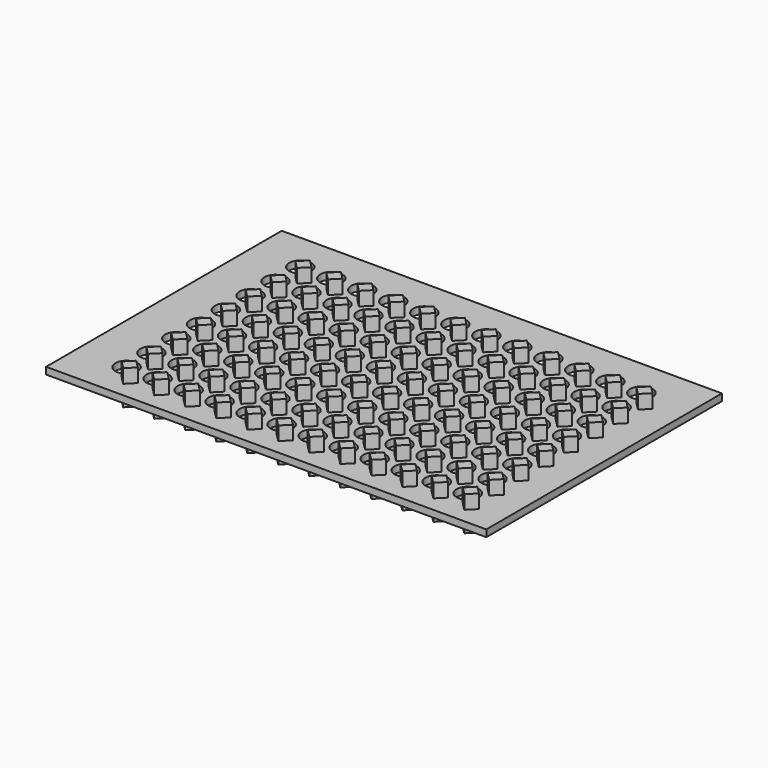
from build123d import *

# Parameters (mm, degrees)
F0_W          = 127.76
F0_H          = 85.48
F0_R          = 3.2258
F1_DEPTH      = 1
F1_DEPTH_BACK = 1
F3_DEPTH      = 5
F3_DEPTH_BACK = 5


with BuildPart() as f1:
    # F0 (on Top) → F1 (new body, two sides)
    with BuildSketch(Plane.XY) as f1_sk:
        with Locations((-63.88, 42.74)):
            Rectangle(F0_W, F0_H)
        with Locations((-113.38, 11.24)):
            Circle(F0_R, mode=Mode.SUBTRACT)
        with Locations((-113.38, 20.24)):
            Circle(F0_R, mode=Mode.SUBTRACT)
        with Locations((-104.38, 11.24)):
            Circle(F0_R, mode=Mode.SUBTRACT)
        with Locations((-104.38, 20.24)):
            Circle(F0_R, mode=Mode.SUBTRACT)
        with Locations((-95.38, 11.24)):
            Circle(F0_R, mode=Mode.SUBTRACT)
        with Locations((-86.38, 11.24)):
            Circle(F0_R, mode=Mode.SUBTRACT)
        with Locations((-95.38, 20.24)):
            Circle(F0_R, mode=Mode.SUBTRACT)
        with Locations((-86.38, 20.24)):
            Circle(F0_R, mode=Mode.SUBTRACT)
        with Locations((-77.38, 11.24)):
            Circle(F0_R, mode=Mode.SUBTRACT)
        with Locations((-68.38, 11.24)):
            Circle(F0_R, mode=Mode.SUBTRACT)
        with Locations((-77.38, 20.24)):
            Circle(F0_R, mode=Mode.SUBTRACT)
        with Locations((-68.38, 20.24)):
            Circle(F0_R, mode=Mode.SUBTRACT)
        with Locations((-113.38, 29.24)):
            Circle(F0_R, mode=Mode.SUBTRACT)
        with Locations((-104.38, 29.24)):
            Circle(F0_R, mode=Mode.SUBTRACT)
        with Locations((-113.38, 38.24)):
            Circle(F0_R, mode=Mode.SUBTRACT)
        with Locations((-104.38, 38.24)):
            Circle(F0_R, mode=Mode.SUBTRACT)
        with Locations((-95.38, 29.24)):
            Circle(F0_R, mode=Mode.SUBTRACT)
        with Locations((-86.38, 29.24)):
            Circle(F0_R, mode=Mode.SUBTRACT)
        with Locations((-77.38, 29.24)):
            Circle(F0_R, mode=Mode.SUBTRACT)
        with Locations((-68.38, 29.24)):
            Circle(F0_R, mode=Mode.SUBTRACT)
        with Locations((-95.38, 38.24)):
            Circle(F0_R, mode=Mode.SUBTRACT)
        with Locations((-86.38, 38.24)):
            Circle(F0_R, mode=Mode.SUBTRACT)
        with Locations((-77.38, 38.24)):
            Circle(F0_R, mode=Mode.SUBTRACT)
        with Locations((-68.38, 38.24)):
            Circle(F0_R, mode=Mode.SUBTRACT)
        with Locations((-59.38, 11.24)):
            Circle(F0_R, mode=Mode.SUBTRACT)
        with Locations((-50.38, 11.24)):
            Circle(F0_R, mode=Mode.SUBTRACT)
        with Locations((-59.38, 20.24)):
            Circle(F0_R, mode=Mode.SUBTRACT)
        with Locations((-50.38, 20.24)):
            Circle(F0_R, mode=Mode.SUBTRACT)
        with Locations((-41.38, 11.24)):
            Circle(F0_R, mode=Mode.SUBTRACT)
        with Locations((-32.38, 11.24)):
            Circle(F0_R, mode=Mode.SUBTRACT)
        with Locations((-41.38, 20.24)):
            Circle(F0_R, mode=Mode.SUBTRACT)
        with Locations((-32.38, 20.24)):
            Circle(F0_R, mode=Mode.SUBTRACT)
        with Locations((-23.38, 11.24)):
            Circle(F0_R, mode=Mode.SUBTRACT)
        with Locations((-23.38, 20.24)):
            Circle(F0_R, mode=Mode.SUBTRACT)
        with Locations((-14.38, 11.24)):
            Circle(F0_R, mode=Mode.SUBTRACT)
        with Locations((-14.38, 20.24)):
            Circle(F0_R, mode=Mode.SUBTRACT)
        with Locations((-59.38, 29.24)):
            Circle(F0_R, mode=Mode.SUBTRACT)
        with Locations((-50.38, 29.24)):
            Circle(F0_R, mode=Mode.SUBTRACT)
        with Locations((-41.38, 29.24)):
            Circle(F0_R, mode=Mode.SUBTRACT)
        with Locations((-32.38, 29.24)):
            Circle(F0_R, mode=Mode.SUBTRACT)
        with Locations((-59.38, 38.24)):
            Circle(F0_R, mode=Mode.SUBTRACT)
        with Locations((-50.38, 38.24)):
            Circle(F0_R, mode=Mode.SUBTRACT)
        with Locations((-41.38, 38.24)):
            Circle(F0_R, mode=Mode.SUBTRACT)
        with Locations((-32.38, 38.24)):
            Circle(F0_R, mode=Mode.SUBTRACT)
        with Locations((-23.38, 29.24)):
            Circle(F0_R, mode=Mode.SUBTRACT)
        with Locations((-14.38, 29.24)):
            Circle(F0_R, mode=Mode.SUBTRACT)
        with Locations((-23.38, 38.24)):
            Circle(F0_R, mode=Mode.SUBTRACT)
        with Locations((-14.38, 38.24)):
            Circle(F0_R, mode=Mode.SUBTRACT)
        with Locations((-113.38, 47.24)):
            Circle(F0_R, mode=Mode.SUBTRACT)
        with Locations((-104.38, 47.24)):
            Circle(F0_R, mode=Mode.SUBTRACT)
        with Locations((-113.38, 56.24)):
            Circle(F0_R, mode=Mode.SUBTRACT)
        with Locations((-104.38, 56.24)):
            Circle(F0_R, mode=Mode.SUBTRACT)
        with Locations((-95.38, 47.24)):
            Circle(F0_R, mode=Mode.SUBTRACT)
        with Locations((-86.38, 47.24)):
            Circle(F0_R, mode=Mode.SUBTRACT)
        with Locations((-77.38, 47.24)):
            Circle(F0_R, mode=Mode.SUBTRACT)
        with Locations((-68.38, 47.24)):
            Circle(F0_R, mode=Mode.SUBTRACT)
        with Locations((-95.38, 56.24)):
            Circle(F0_R, mode=Mode.SUBTRACT)
        with Locations((-86.38, 56.24)):
            Circle(F0_R, mode=Mode.SUBTRACT)
        with Locations((-77.38, 56.24)):
            Circle(F0_R, mode=Mode.SUBTRACT)
        with Locations((-68.38, 56.24)):
            Circle(F0_R, mode=Mode.SUBTRACT)
        with Locations((-113.38, 65.24)):
            Circle(F0_R, mode=Mode.SUBTRACT)
        with Locations((-113.38, 74.24)):
            Circle(F0_R, mode=Mode.SUBTRACT)
        with Locations((-104.38, 65.24)):
            Circle(F0_R, mode=Mode.SUBTRACT)
        with Locations((-104.38, 74.24)):
            Circle(F0_R, mode=Mode.SUBTRACT)
        with Locations((-95.38, 65.24)):
            Circle(F0_R, mode=Mode.SUBTRACT)
        with Locations((-86.38, 65.24)):
            Circle(F0_R, mode=Mode.SUBTRACT)
        with Locations((-95.38, 74.24)):
            Circle(F0_R, mode=Mode.SUBTRACT)
        with Locations((-86.38, 74.24)):
            Circle(F0_R, mode=Mode.SUBTRACT)
        with Locations((-77.38, 65.24)):
            Circle(F0_R, mode=Mode.SUBTRACT)
        with Locations((-68.38, 65.24)):
            Circle(F0_R, mode=Mode.SUBTRACT)
        with Locations((-77.38, 74.24)):
            Circle(F0_R, mode=Mode.SUBTRACT)
        with Locations((-68.38, 74.24)):
            Circle(F0_R, mode=Mode.SUBTRACT)
        with Locations((-59.38, 47.24)):
            Circle(F0_R, mode=Mode.SUBTRACT)
        with Locations((-50.38, 47.24)):
            Circle(F0_R, mode=Mode.SUBTRACT)
        with Locations((-41.38, 47.24)):
            Circle(F0_R, mode=Mode.SUBTRACT)
        with Locations((-32.38, 47.24)):
            Circle(F0_R, mode=Mode.SUBTRACT)
        with Locations((-59.38, 56.24)):
            Circle(F0_R, mode=Mode.SUBTRACT)
        with Locations((-50.38, 56.24)):
            Circle(F0_R, mode=Mode.SUBTRACT)
        with Locations((-41.38, 56.24)):
            Circle(F0_R, mode=Mode.SUBTRACT)
        with Locations((-32.38, 56.24)):
            Circle(F0_R, mode=Mode.SUBTRACT)
        with Locations((-23.38, 47.24)):
            Circle(F0_R, mode=Mode.SUBTRACT)
        with Locations((-14.38, 47.24)):
            Circle(F0_R, mode=Mode.SUBTRACT)
        with Locations((-23.38, 56.24)):
            Circle(F0_R, mode=Mode.SUBTRACT)
        with Locations((-14.38, 56.24)):
            Circle(F0_R, mode=Mode.SUBTRACT)
        with Locations((-59.38, 65.24)):
            Circle(F0_R, mode=Mode.SUBTRACT)
        with Locations((-50.38, 65.24)):
            Circle(F0_R, mode=Mode.SUBTRACT)
        with Locations((-59.38, 74.24)):
            Circle(F0_R, mode=Mode.SUBTRACT)
        with Locations((-50.38, 74.24)):
            Circle(F0_R, mode=Mode.SUBTRACT)
        with Locations((-41.38, 65.24)):
            Circle(F0_R, mode=Mode.SUBTRACT)
        with Locations((-32.38, 65.24)):
            Circle(F0_R, mode=Mode.SUBTRACT)
        with Locations((-41.38, 74.24)):
            Circle(F0_R, mode=Mode.SUBTRACT)
        with Locations((-32.38, 74.24)):
            Circle(F0_R, mode=Mode.SUBTRACT)
        with Locations((-23.38, 65.24)):
            Circle(F0_R, mode=Mode.SUBTRACT)
        with Locations((-23.38, 74.24)):
            Circle(F0_R, mode=Mode.SUBTRACT)
        with Locations((-14.38, 65.24)):
            Circle(F0_R, mode=Mode.SUBTRACT)
        with Locations((-14.38, 74.24)):
            Circle(F0_R, mode=Mode.SUBTRACT)
    extrude(amount=F1_DEPTH)
    extrude(f1_sk.sketch, amount=-F1_DEPTH_BACK)

    # F2 (on Top) → F3 (join, two sides)
    with BuildSketch(Plane.XY) as f3_sk:
        Polygon((-106.52539, 69.74), (-108.88, 72.09461), (-111.23461, 69.74), (-108.88, 67.38539), align=None)
        Polygon((-108.88, 63.09461), (-111.23461, 60.74), (-108.88, 58.38539), (-106.52539, 60.74), align=None)
        Polygon((-108.88, 54.09461), (-111.23461, 51.74), (-108.88, 49.38539), (-106.52539, 51.74), align=None)
        Polygon((-108.88, 45.09461), (-111.23461, 42.74), (-108.88, 40.38539), (-106.52539, 42.74), align=None)
        Polygon((-108.88, 36.09461), (-111.23461, 33.74), (-108.88, 31.38539), (-106.52539, 33.74), align=None)
        Polygon((-108.88, 27.09461), (-111.23461, 24.74), (-108.88, 22.38539), (-106.52539, 24.74), align=None)
        Polygon((-108.88, 18.09461), (-111.23461, 15.74), (-108.88, 13.38539), (-106.52539, 15.74), align=None)
        Polygon((-108.88, 9.09461), (-111.23461, 6.74), (-108.88, 4.38539), (-106.52539, 6.74), align=None)
        Polygon((-99.88, 72.09461), (-102.23461, 69.74), (-99.88, 67.38539), (-97.52539, 69.74), align=None)
        Polygon((-99.88, 63.09461), (-102.23461, 60.74), (-99.88, 58.38539), (-97.52539, 60.74), align=None)
        Polygon((-99.88, 54.09461), (-102.23461, 51.74), (-99.88, 49.38539), (-97.52539, 51.74), align=None)
        Polygon((-99.88, 45.09461), (-102.23461, 42.74), (-99.88, 40.38539), (-97.52539, 42.74), align=None)
        Polygon((-99.88, 36.09461), (-102.23461, 33.74), (-99.88, 31.38539), (-97.52539, 33.74), align=None)
        Polygon((-99.88, 27.09461), (-102.23461, 24.74), (-99.88, 22.38539), (-97.52539, 24.74), align=None)
        Polygon((-99.88, 18.09461), (-102.23461, 15.74), (-99.88, 13.38539), (-97.52539, 15.74), align=None)
        Polygon((-99.88, 9.09461), (-102.23461, 6.74), (-99.88, 4.38539), (-97.52539, 6.74), align=None)
        Polygon((-90.88, 72.09461), (-93.23461, 69.74), (-90.88, 67.38539), (-88.52539, 69.74), align=None)
        Polygon((-90.88, 63.09461), (-93.23461, 60.74), (-90.88, 58.38539), (-88.52539, 60.74), align=None)
        Polygon((-90.88, 54.09461), (-93.23461, 51.74), (-90.88, 49.38539), (-88.52539, 51.74), align=None)
        Polygon((-90.88, 45.09461), (-93.23461, 42.74), (-90.88, 40.38539), (-88.52539, 42.74), align=None)
        Polygon((-90.88, 36.09461), (-93.23461, 33.74), (-90.88, 31.38539), (-88.52539, 33.74), align=None)
        Polygon((-90.88, 27.09461), (-93.23461, 24.74), (-90.88, 22.38539), (-88.52539, 24.74), align=None)
        Polygon((-90.88, 18.09461), (-93.23461, 15.74), (-90.88, 13.38539), (-88.52539, 15.74), align=None)
        Polygon((-90.88, 9.09461), (-93.23461, 6.74), (-90.88, 4.38539), (-88.52539, 6.74), align=None)
        Polygon((-81.88, 72.09461), (-84.23461, 69.74), (-81.88, 67.38539), (-79.52539, 69.74), align=None)
        Polygon((-81.88, 63.09461), (-84.23461, 60.74), (-81.88, 58.38539), (-79.52539, 60.74), align=None)
        Polygon((-81.88, 54.09461), (-84.23461, 51.74), (-81.88, 49.38539), (-79.52539, 51.74), align=None)
        Polygon((-81.88, 45.09461), (-84.23461, 42.74), (-81.88, 40.38539), (-79.52539, 42.74), align=None)
        Polygon((-81.88, 36.09461), (-84.23461, 33.74), (-81.88, 31.38539), (-79.52539, 33.74), align=None)
        Polygon((-81.88, 27.09461), (-84.23461, 24.74), (-81.88, 22.38539), (-79.52539, 24.74), align=None)
        Polygon((-81.88, 18.09461), (-84.23461, 15.74), (-81.88, 13.38539), (-79.52539, 15.74), align=None)
        Polygon((-81.88, 9.09461), (-84.23461, 6.74), (-81.88, 4.38539), (-79.52539, 6.74), align=None)
        Polygon((-72.88, 72.09461), (-75.23461, 69.74), (-72.88, 67.38539), (-70.52539, 69.74), align=None)
        Polygon((-72.88, 63.09461), (-75.23461, 60.74), (-72.88, 58.38539), (-70.52539, 60.74), align=None)
        Polygon((-72.88, 54.09461), (-75.23461, 51.74), (-72.88, 49.38539), (-70.52539, 51.74), align=None)
        Polygon((-72.88, 45.09461), (-75.23461, 42.74), (-72.88, 40.38539), (-70.52539, 42.74), align=None)
        Polygon((-72.88, 36.09461), (-75.23461, 33.74), (-72.88, 31.38539), (-70.52539, 33.74), align=None)
        Polygon((-72.88, 27.09461), (-75.23461, 24.74), (-72.88, 22.38539), (-70.52539, 24.74), align=None)
        Polygon((-72.88, 18.09461), (-75.23461, 15.74), (-72.88, 13.38539), (-70.52539, 15.74), align=None)
        Polygon((-72.88, 9.09461), (-75.23461, 6.74), (-72.88, 4.38539), (-70.52539, 6.74), align=None)
        Polygon((-63.88, 72.09461), (-66.23461, 69.74), (-63.88, 67.38539), (-61.52539, 69.74), align=None)
        Polygon((-63.88, 63.09461), (-66.23461, 60.74), (-63.88, 58.38539), (-61.52539, 60.74), align=None)
        Polygon((-63.88, 54.09461), (-66.23461, 51.74), (-63.88, 49.38539), (-61.52539, 51.74), align=None)
        Polygon((-63.88, 45.09461), (-66.23461, 42.74), (-63.88, 40.38539), (-61.52539, 42.74), align=None)
        Polygon((-63.88, 36.09461), (-66.23461, 33.74), (-63.88, 31.38539), (-61.52539, 33.74), align=None)
        Polygon((-63.88, 27.09461), (-66.23461, 24.74), (-63.88, 22.38539), (-61.52539, 24.74), align=None)
        Polygon((-63.88, 18.09461), (-66.23461, 15.74), (-63.88, 13.38539), (-61.52539, 15.74), align=None)
        Polygon((-63.88, 9.09461), (-66.23461, 6.74), (-63.88, 4.38539), (-61.52539, 6.74), align=None)
        Polygon((-54.88, 72.09461), (-57.23461, 69.74), (-54.88, 67.38539), (-52.52539, 69.74), align=None)
        Polygon((-54.88, 63.09461), (-57.23461, 60.74), (-54.88, 58.38539), (-52.52539, 60.74), align=None)
        Polygon((-54.88, 54.09461), (-57.23461, 51.74), (-54.88, 49.38539), (-52.52539, 51.74), align=None)
        Polygon((-54.88, 45.09461), (-57.23461, 42.74), (-54.88, 40.38539), (-52.52539, 42.74), align=None)
        Polygon((-54.88, 36.09461), (-57.23461, 33.74), (-54.88, 31.38539), (-52.52539, 33.74), align=None)
        Polygon((-54.88, 27.09461), (-57.23461, 24.74), (-54.88, 22.38539), (-52.52539, 24.74), align=None)
        Polygon((-54.88, 18.09461), (-57.23461, 15.74), (-54.88, 13.38539), (-52.52539, 15.74), align=None)
        Polygon((-54.88, 9.09461), (-57.23461, 6.74), (-54.88, 4.38539), (-52.52539, 6.74), align=None)
        Polygon((-45.88, 72.09461), (-48.23461, 69.74), (-45.88, 67.38539), (-43.52539, 69.74), align=None)
        Polygon((-45.88, 63.09461), (-48.23461, 60.74), (-45.88, 58.38539), (-43.52539, 60.74), align=None)
        Polygon((-45.88, 54.09461), (-48.23461, 51.74), (-45.88, 49.38539), (-43.52539, 51.74), align=None)
        Polygon((-45.88, 45.09461), (-48.23461, 42.74), (-45.88, 40.38539), (-43.52539, 42.74), align=None)
        Polygon((-45.88, 36.09461), (-48.23461, 33.74), (-45.88, 31.38539), (-43.52539, 33.74), align=None)
        Polygon((-45.88, 27.09461), (-48.23461, 24.74), (-45.88, 22.38539), (-43.52539, 24.74), align=None)
        Polygon((-45.88, 18.09461), (-48.23461, 15.74), (-45.88, 13.38539), (-43.52539, 15.74), align=None)
        Polygon((-45.88, 9.09461), (-48.23461, 6.74), (-45.88, 4.38539), (-43.52539, 6.74), align=None)
        Polygon((-36.88, 72.09461), (-39.23461, 69.74), (-36.88, 67.38539), (-34.52539, 69.74), align=None)
        Polygon((-36.88, 63.09461), (-39.23461, 60.74), (-36.88, 58.38539), (-34.52539, 60.74), align=None)
        Polygon((-36.88, 54.09461), (-39.23461, 51.74), (-36.88, 49.38539), (-34.52539, 51.74), align=None)
        Polygon((-36.88, 45.09461), (-39.23461, 42.74), (-36.88, 40.38539), (-34.52539, 42.74), align=None)
        Polygon((-36.88, 36.09461), (-39.23461, 33.74), (-36.88, 31.38539), (-34.52539, 33.74), align=None)
        Polygon((-36.88, 27.09461), (-39.23461, 24.74), (-36.88, 22.38539), (-34.52539, 24.74), align=None)
        Polygon((-36.88, 18.09461), (-39.23461, 15.74), (-36.88, 13.38539), (-34.52539, 15.74), align=None)
        Polygon((-36.88, 9.09461), (-39.23461, 6.74), (-36.88, 4.38539), (-34.52539, 6.74), align=None)
        Polygon((-27.88, 72.09461), (-30.23461, 69.74), (-27.88, 67.38539), (-25.52539, 69.74), align=None)
        Polygon((-27.88, 63.09461), (-30.23461, 60.74), (-27.88, 58.38539), (-25.52539, 60.74), align=None)
        Polygon((-27.88, 54.09461), (-30.23461, 51.74), (-27.88, 49.38539), (-25.52539, 51.74), align=None)
        Polygon((-27.88, 45.09461), (-30.23461, 42.74), (-27.88, 40.38539), (-25.52539, 42.74), align=None)
        Polygon((-27.88, 36.09461), (-30.23461, 33.74), (-27.88, 31.38539), (-25.52539, 33.74), align=None)
        Polygon((-27.88, 27.09461), (-30.23461, 24.74), (-27.88, 22.38539), (-25.52539, 24.74), align=None)
        Polygon((-27.88, 18.09461), (-30.23461, 15.74), (-27.88, 13.38539), (-25.52539, 15.74), align=None)
        Polygon((-27.88, 9.09461), (-30.23461, 6.74), (-27.88, 4.38539), (-25.52539, 6.74), align=None)
        Polygon((-18.88, 72.09461), (-21.23461, 69.74), (-18.88, 67.38539), (-16.52539, 69.74), align=None)
        Polygon((-18.88, 63.09461), (-21.23461, 60.74), (-18.88, 58.38539), (-16.52539, 60.74), align=None)
        Polygon((-18.88, 54.09461), (-21.23461, 51.74), (-18.88, 49.38539), (-16.52539, 51.74), align=None)
        Polygon((-18.88, 45.09461), (-21.23461, 42.74), (-18.88, 40.38539), (-16.52539, 42.74), align=None)
        Polygon((-18.88, 36.09461), (-21.23461, 33.74), (-18.88, 31.38539), (-16.52539, 33.74), align=None)
        Polygon((-18.88, 27.09461), (-21.23461, 24.74), (-18.88, 22.38539), (-16.52539, 24.74), align=None)
        Polygon((-18.88, 18.09461), (-21.23461, 15.74), (-18.88, 13.38539), (-16.52539, 15.74), align=None)
        Polygon((-18.88, 9.09461), (-21.23461, 6.74), (-18.88, 4.38539), (-16.52539, 6.74), align=None)
        Polygon((-9.88, 72.09461), (-12.23461, 69.74), (-9.88, 67.38539), (-7.52539, 69.74), align=None)
        Polygon((-9.88, 63.09461), (-12.23461, 60.74), (-9.88, 58.38539), (-7.52539, 60.74), align=None)
        Polygon((-9.88, 54.09461), (-12.23461, 51.74), (-9.88, 49.38539), (-7.52539, 51.74), align=None)
        Polygon((-9.88, 45.09461), (-12.23461, 42.74), (-9.88, 40.38539), (-7.52539, 42.74), align=None)
        Polygon((-9.88, 36.09461), (-12.23461, 33.74), (-9.88, 31.38539), (-7.52539, 33.74), align=None)
        Polygon((-9.88, 27.09461), (-12.23461, 24.74), (-9.88, 22.38539), (-7.52539, 24.74), align=None)
        Polygon((-9.88, 18.09461), (-12.23461, 15.74), (-9.88, 13.38539), (-7.52539, 15.74), align=None)
        Polygon((-9.88, 9.09461), (-12.23461, 6.74), (-9.88, 4.38539), (-7.52539, 6.74), align=None)
    extrude(amount=F3_DEPTH)
    extrude(f3_sk.sketch, amount=-F3_DEPTH_BACK)


solid = f1.part
